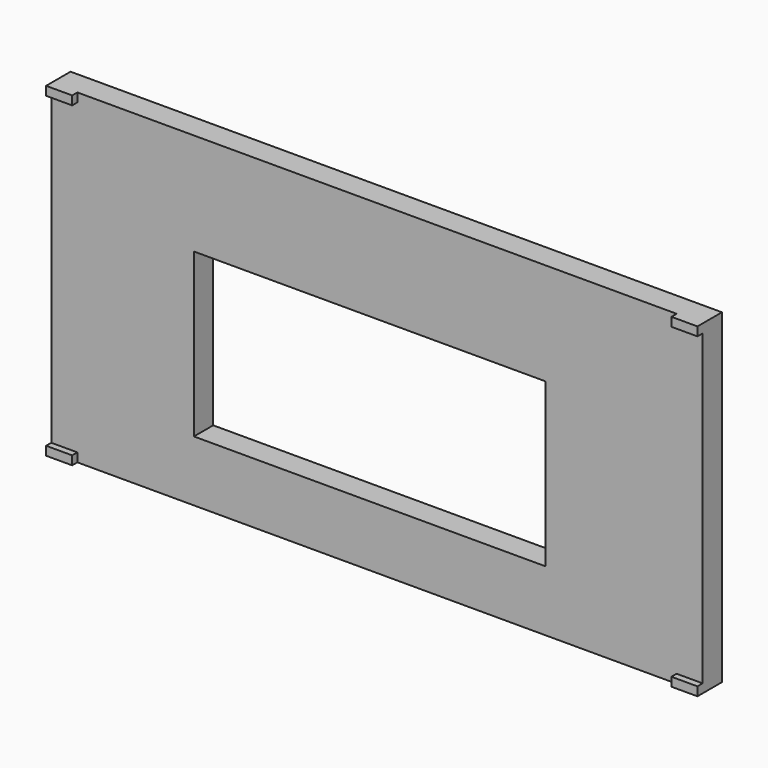
from build123d import *

# Parameters (mm, degrees)
F0_W     = 200
F0_H     = 100
F1_DEPTH = 7.4
F2_W     = 8
F2_H     = 2.7
F3_DEPTH = 2
F4_W     = 108
F4_H     = 50
F5_DEPTH = 7.401
F6_SCALE = 5


with BuildPart() as f1:
    # F0 (on Front) → F1 (new body)
    with BuildSketch(Plane.XZ):
        with Locations((2.2038258612, 6.3567497451)):
            Rectangle(F0_W, F0_H)
    extrude(amount=F1_DEPTH)

    # F2 (on face) → F3 (join)
    with BuildSketch(Plane.XZ.offset(7.4)):
        with Locations((-93.7961741388, 55.0067497451)):
            Rectangle(F2_W, F2_H)
        with Locations((98.2038258612, 55.0067497451)):
            Rectangle(F2_W, F2_H)
        with Locations((98.2038258612, -42.2932502549)):
            Rectangle(F2_W, F2_H)
        with Locations((-93.7961741388, -42.2932502549)):
            Rectangle(F2_W, F2_H)
    extrude(amount=F3_DEPTH)

    # F4 (on face) → F5 (cut, through all)
    with BuildSketch(Plane.XZ.offset(7.4)):
        Rectangle(F4_W, F4_H)
    extrude(amount=-F5_DEPTH, mode=Mode.SUBTRACT)


with BuildPart() as f1_1:
    # F6: moved
    add(f1.part.scale(F6_SCALE))


solid = f1_1.part
